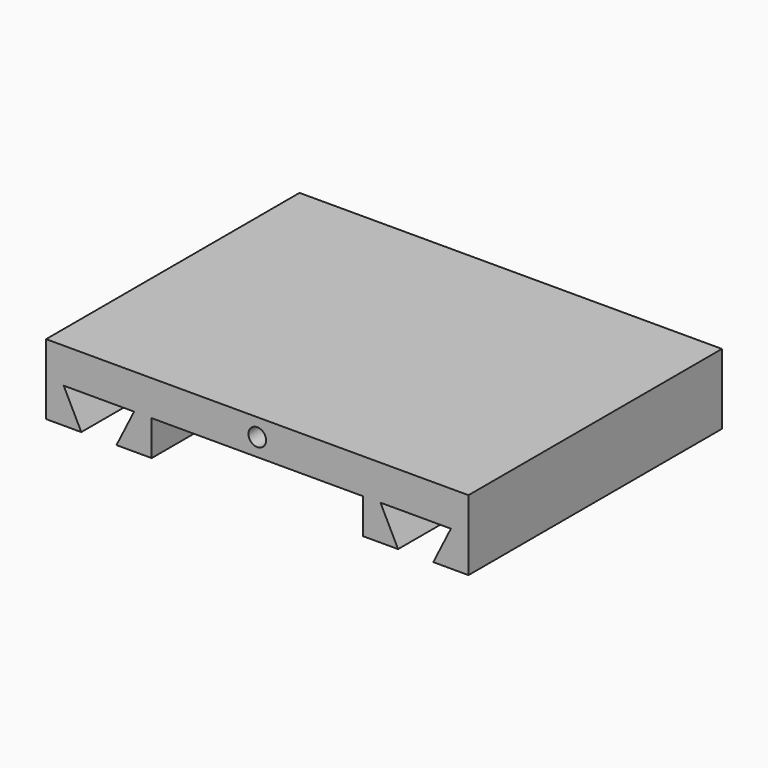
from build123d import *

# Parameters (mm, degrees)
F0_W     = 152.4
F0_H     = 114.3
F1_DEPTH = 12.7
F2_W     = 6.35
F2_H     = 12.7
F3_DEPTH = 114.3
F4_R     = 3.175
F5_DEPTH = 12.7


with BuildPart() as f1:
    # F0 (on Top) → F1 (new body)
    with BuildSketch(Plane.XY):
        Rectangle(F0_W, F0_H)
    extrude(amount=F1_DEPTH)

    # F2 (on face) → F3 (join)
    with BuildSketch(Plane.XZ.offset(57.15)):
        Polygon((-63.5, -12.7), (-69.85, 0), (-69.85, -12.7), align=None)
        with Locations((-73.025, -6.35)):
            Rectangle(F2_W, F2_H)
        Polygon((-44.45, -12.7), (-44.45, 0), (-50.8, -12.7), align=None)
        with Locations((-41.275, -6.35)):
            Rectangle(F2_W, F2_H)
        with Locations((41.275, -6.35)):
            Rectangle(F2_W, F2_H)
        Polygon((50.8, -12.7), (44.45, 0), (44.45, -12.7), align=None)
        Polygon((69.85, -12.7), (69.85, 0), (63.5, -12.7), align=None)
        with Locations((73.025, -6.35)):
            Rectangle(F2_W, F2_H)
    extrude(amount=-F3_DEPTH)

    # F4 (on face) → F5 (cut)
    with BuildSketch(Plane.XZ.offset(57.15)):
        with Locations((0, 6.35)):
            Circle(F4_R)
    extrude(amount=-F5_DEPTH, mode=Mode.SUBTRACT)


solid = f1.part
